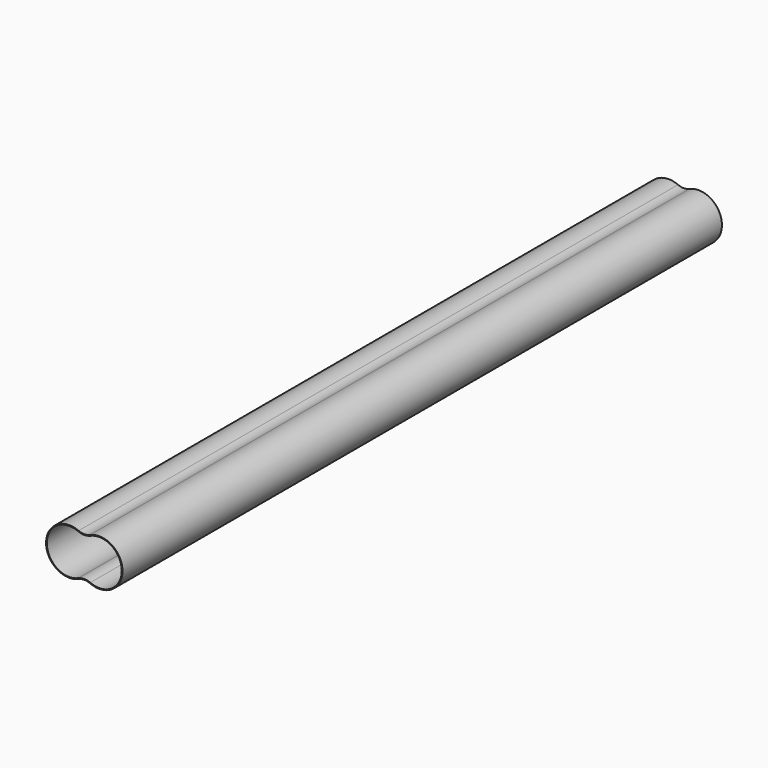
from build123d import *

# Parameters (mm, degrees)
F1_DEPTH = 1270


with BuildPart() as f1:
    # F0 (on Front) → F1 (new body)
    with BuildSketch(Plane.XZ):
        with BuildLine():
            ThreePointArc((9.652, 36.083201), (0, 34.068711), (-9.652, 36.083201))
            ThreePointArc((-9.652, 36.083201), (-64.77, 0), (-9.652, -36.083201))
            ThreePointArc((-9.652, -36.083201), (0, -34.068711), (9.652, -36.083201))
            ThreePointArc((9.652, -36.083201), (64.77, 0), (9.652, 36.083201))
        make_face()
        with BuildLine():
            ThreePointArc((10.16, 34.919227), (63.5, 0), (10.16, -34.919227))
            ThreePointArc((10.16, -34.919227), (0, -32.798711), (-10.16, -34.919227))
            ThreePointArc((-10.16, -34.919227), (-63.5, 0), (-10.16, 34.919227))
            ThreePointArc((-10.16, 34.919227), (0, 32.798711), (10.16, 34.919227))
        make_face(mode=Mode.SUBTRACT)
    extrude(amount=-F1_DEPTH)


solid = f1.part
